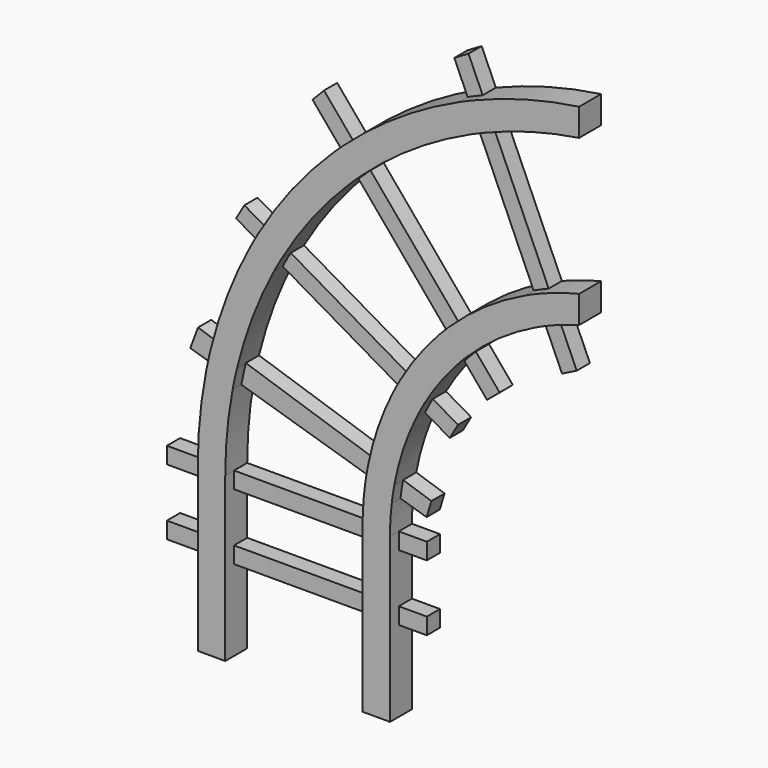
from build123d import *

# Parameters (mm, degrees)
F0_W     = 12.7
F0_H     = 7.62
F0_H_2   = 22.86
F0_H_3   = 37.4051523447
F1_DEPTH = 12.7
F2_DEPTH = 7.62
F0_W_2   = 63.5
F0_W_3   = 12.9496006727
F0_W_4   = 18.3387696743


with BuildPart() as f1:
    # F0 (on Front) → F1 (new body)
    with BuildSketch(Plane.XZ):
        with BuildLine():
            ThreePointArc((123.2638508081, 203.3807486296), (98.5284580668, 198.2719131295), (74.6068470106, 190.1665828637))
            Line((74.6068470106, 190.1665828637), (79.7206934395, 178.6448245315))
            ThreePointArc((79.7206934395, 178.6448245315), (101.1387402322, 185.9417822494), (123.2638508081, 190.6807486296))
            Line((123.2638508081, 190.6807486296), (123.2638508081, 203.3807486296))
        make_face()
        with BuildLine():
            ThreePointArc((74.6068470106, 190.1665828637), (71.1135233791, 188.7002628742), (67.647831647, 187.1697776163))
            Line((67.647831647, 187.1697776163), (72.758012158, 175.6460091987))
            ThreePointArc((72.758012158, 175.6460091987), (76.2246207074, 177.1796219912), (79.7206934395, 178.6448245315))
            Line((79.7206934395, 178.6448245315), (74.6068470106, 190.1665828637))
        make_face()
        with BuildLine():
            ThreePointArc((67.647831647, 187.1697776163), (39.7597301644, 171.840144172), (14.5735234294, 152.3876673079))
            Line((14.5735234294, 152.3876673079), (22.7188396142, 142.7010639584))
            ThreePointArc((22.7188396142, 142.7010639584), (46.4517177244, 161.1278822679), (72.758012158, 175.6460091987))
            Line((72.758012158, 175.6460091987), (67.647831647, 187.1697776163))
        make_face()
        with BuildLine():
            ThreePointArc((14.5735234294, 152.3876673079), (11.7794879403, 149.8137230966), (9.0335213742, 147.1885581998))
            Line((9.0335213742, 147.1885581998), (17.1964273399, 137.474700839))
            ThreePointArc((17.1964273399, 137.474700839), (19.9318823837, 140.1150921717), (22.7188396142, 142.7010639584))
            Line((22.7188396142, 142.7010639584), (14.5735234294, 152.3876673079))
        make_face()
        with BuildLine():
            ThreePointArc((9.0335213742, 147.1885581998), (-9.527713572, 126.4862552743), (-25.123677859, 103.4673350757))
            Line((-25.123677859, 103.4673350757), (-14.1553001974, 97.108853144))
            ThreePointArc((-14.1553001974, 97.108853144), (0.1778247939, 118.3346680171), (17.1964273399, 137.474700839))
            Line((17.1964273399, 137.474700839), (9.0335213742, 147.1885581998))
        make_face()
        with BuildLine():
            ThreePointArc((-28.8388715213, 96.8132475151), (-39.3919459782, 73.7340925126), (-47.0192412341, 49.5299783333))
            Line((-47.0192412341, 49.5299783333), (-34.9257600922, 45.5436537617))
            ThreePointArc((-34.9257600922, 45.5436537617), (-27.7965155034, 68.5296572353), (-17.8608100859, 90.4491517996))
            Line((-17.8608100859, 90.4491517995), (-28.8388715213, 96.8132475151))
        make_face()
        with BuildLine():
            ThreePointArc((-25.123677859, 103.4673350757), (-27.0121302745, 100.1575189724), (-28.8388715213, 96.8132475151))
            Line((-28.8388715213, 96.8132475151), (-17.8608100859, 90.4491517995))
            ThreePointArc((-17.8608100859, 90.4491517996), (-16.0409452089, 93.7973027623), (-14.1553001974, 97.108853144))
            Line((-14.1553001974, 97.108853144), (-25.123677859, 103.4673350757))
        make_face()
        with BuildLine():
            ThreePointArc((-47.0192412341, 49.5299783333), (-48.1642739682, 44.668584276), (-49.1908002716, 39.7807937841))
            Line((-49.1908002715, 39.7807937841), (-36.9786217253, 36.0603067767))
            ThreePointArc((-36.9786217253, 36.0603067767), (-36.0118231864, 40.8148888778), (-34.9257600922, 45.5436537617))
            Line((-34.9257600922, 45.5436537617), (-47.0192412341, 49.5299783333))
        make_face()
        with BuildLine():
            ThreePointArc((-49.1908002716, 39.7807937841), (-52.1045292445, 19.9851726597), (-53.0788525939, 0))
            Line((-53.0788525939, 0), (-40.3788525939, 0))
            ThreePointArc((-40.3788525939, 0), (-39.5269137324, 18.1101304164), (-36.9786217253, 36.0603067767))
            Line((-36.9786217253, 36.0603067767), (-49.1908002715, 39.7807937841))
        make_face()
        with Locations((-46.7288525939, -3.81)):
            Rectangle(F0_W, F0_H)
        with Locations((-46.7288525939, -19.05)):
            Rectangle(F0_W, F0_H_2)
        with Locations((-46.7288525939, -34.29)):
            Rectangle(F0_W, F0_H)
        with Locations((-46.7288525939, -56.8025761724)):
            Rectangle(F0_W, F0_H_3)
    extrude(amount=F1_DEPTH)


with BuildPart() as f1b:
    # F0 (on Front) → F1, piece 2 (new body)
    with BuildSketch(Plane.XZ):
        with Locations((29.4711474061, -56.8025761724)):
            Rectangle(F0_W, F0_H_3)
        with Locations((29.4711474061, -34.29)):
            Rectangle(F0_W, F0_H)
        with Locations((29.4711474061, -19.05)):
            Rectangle(F0_W, F0_H_2)
        with Locations((29.4711474061, -3.81)):
            Rectangle(F0_W, F0_H)
        with BuildLine():
            ThreePointArc((24.2829387851, 17.3967375314), (23.4119183695, 8.7177439161), (23.1211474061, 0))
            Line((23.1211474061, 0), (35.8211474061, 0))
            ThreePointArc((35.8211474061, 0), (36.0180055557, 6.8322760639), (36.6079268302, 13.6418826777))
            Line((36.6079268302, 13.6418826777), (24.2829387851, 17.3967375314))
        make_face()
        with BuildLine():
            ThreePointArc((25.6457554555, 25.5777136046), (24.8995041229, 21.4980273497), (24.2829387851, 17.3967375314))
            Line((24.2829387851, 17.3967375314), (36.6079268302, 13.6418826777))
            ThreePointArc((36.6079268302, 13.6418826777), (37.1361790002, 17.6169374031), (37.7984424579, 21.571873248))
            Line((37.7984424579, 21.571873248), (25.6457554555, 25.5777136046))
        make_face()
        with BuildLine():
            ThreePointArc((37.0012783394, 58.6450319239), (30.2139426889, 42.4924074522), (25.6457554555, 25.5777136046))
            Line((25.6457554555, 25.5777136046), (37.7984424579, 21.571873248))
            ThreePointArc((37.7984424579, 21.571873248), (41.8291201697, 37.2790524583), (47.9636720966, 52.2900189234))
            Line((47.9636720966, 52.2900189234), (37.0012783394, 58.6450319239))
        make_face()
        with BuildLine():
            ThreePointArc((40.6157458019, 65.3575115039), (38.759608058, 62.0276050473), (37.0012783394, 58.6450319239))
            Line((37.0012783394, 58.6450319239), (47.9636720966, 52.2900189234))
            ThreePointArc((47.9636720966, 52.2900189234), (49.6987542978, 55.6854739586), (51.5420371378, 59.0234274503))
            Line((51.5420371378, 59.0234274503), (40.6157458019, 65.3575115039))
        make_face()
        with BuildLine():
            ThreePointArc((57.9914953154, 88.9285736386), (48.6420664406, 77.6307167617), (40.6157458019, 65.3575115039))
            Line((40.6157458019, 65.3575115039), (51.5420371378, 59.0234274503))
            ThreePointArc((51.5420371378, 59.0234274503), (58.311198222, 69.5095613624), (66.1443584101, 79.2266672934))
            Line((66.1443584101, 79.2266672934), (57.9914953154, 88.9285736386))
        make_face()
        with BuildLine():
            ThreePointArc((63.3497167399, 94.3818604396), (60.6307642157, 91.6943643017), (57.9914953154, 88.9285736386))
            Line((57.9914953154, 88.9285736386), (66.1443584101, 79.2266672934))
            ThreePointArc((66.1443584101, 79.2266672934), (68.747439499, 82.0365123902), (71.4398528257, 84.7608785736))
            Line((71.4398528257, 84.7608785736), (63.3497167399, 94.3818604396))
        make_face()
        with BuildLine():
            ThreePointArc((98.1690415138, 118.3425896969), (79.7853703626, 107.7776380605), (63.3497167399, 94.3818604396))
            Line((63.3497167399, 94.3818604396), (71.4398528257, 84.7608785736))
            ThreePointArc((71.4398528257, 84.7608785736), (86.4034217717, 97.1890672316), (103.1963970014, 107.0055967536))
            Line((103.1963970014, 107.0055967536), (98.1690415138, 118.3425896969))
        make_face()
        with BuildLine():
            ThreePointArc((105.1361364963, 121.3825275736), (101.6305063529, 119.9131688586), (98.1690415138, 118.3425896969))
            Line((98.1690415138, 118.3425896969), (103.1963970014, 107.0055967536))
            ThreePointArc((103.1963970014, 107.0055967536), (106.6519233508, 108.5941768213), (110.1565837097, 110.0712024649))
            Line((110.1565837097, 110.0712024649), (105.1361364963, 121.3825275736))
        make_face()
        with BuildLine():
            ThreePointArc((123.2638508081, 127.1807486296), (114.094417816, 124.6117132366), (105.1361364963, 121.3825275736))
            Line((105.1361364963, 121.3825275736), (110.1565837097, 110.0712024649))
            ThreePointArc((110.1565837097, 110.0712024649), (116.6459248402, 112.4670831745), (123.2638508081, 114.4807486296))
            Line((123.2638508081, 114.4807486296), (123.2638508081, 127.1807486296))
        make_face()
    extrude(amount=F1_DEPTH)


with BuildPart() as f2:
    # F0 (on Front) → F2 (new body)
    with BuildSketch(Plane.XZ):
        with BuildLine():
            ThreePointArc((79.7206934395, 178.6448245315), (76.2246207074, 177.1796219912), (72.758012158, 175.6460091987))
            Line((72.758012158, 175.6460091987), (98.1690415138, 118.3425896969))
            ThreePointArc((98.1690415138, 118.3425896969), (101.6305063529, 119.9131688586), (105.1361364963, 121.3825275736))
            Line((105.1361364963, 121.3825275736), (79.7206934395, 178.6448245315))
        make_face()
    extrude(amount=F2_DEPTH)


with BuildPart() as f2b:
    # F0 (on Front) → F2, piece 2 (new body)
    with BuildSketch(Plane.XZ):
        with BuildLine():
            ThreePointArc((22.7188396142, 142.7010639584), (19.9318823837, 140.1150921717), (17.1964273399, 137.474700839))
            Line((17.1964273399, 137.474700839), (57.9914953154, 88.9285736386))
            ThreePointArc((57.9914953154, 88.9285736386), (60.6307642157, 91.6943643017), (63.3497167399, 94.3818604396))
            Line((63.3497167399, 94.3818604396), (22.7188396142, 142.7010639584))
        make_face()
    extrude(amount=F2_DEPTH)


with BuildPart() as f2c:
    # F0 (on Front) → F2, piece 3 (new body)
    with BuildSketch(Plane.XZ):
        with BuildLine():
            ThreePointArc((-14.1553001974, 97.108853144), (-16.0409452089, 93.7973027623), (-17.8608100859, 90.4491517996))
            Line((-17.8608100859, 90.4491517995), (37.0012783394, 58.6450319239))
            ThreePointArc((37.0012783394, 58.6450319239), (38.759608058, 62.0276050473), (40.6157458019, 65.3575115039))
            Line((40.6157458019, 65.3575115039), (-14.1553001974, 97.108853144))
        make_face()
    extrude(amount=F2_DEPTH)


with BuildPart() as f2d:
    # F0 (on Front) → F2, piece 4 (new body)
    with BuildSketch(Plane.XZ):
        with BuildLine():
            ThreePointArc((-34.9257600922, 45.5436537617), (-36.0118231864, 40.8148888778), (-36.9786217253, 36.0603067767))
            Line((-36.9786217253, 36.0603067767), (24.2829387851, 17.3967375314))
            ThreePointArc((24.2829387851, 17.3967375314), (24.8995041229, 21.4980273497), (25.6457554555, 25.5777136046))
            Line((25.6457554555, 25.5777136046), (-34.9257600922, 45.5436537617))
        make_face()
    extrude(amount=F2_DEPTH)


with BuildPart() as f2e:
    # F0 (on Front) → F2, piece 5 (new body)
    with BuildSketch(Plane.XZ):
        with Locations((-8.6288525939, -3.81)):
            Rectangle(F0_W_2, F0_H)
    extrude(amount=F2_DEPTH)


with BuildPart() as f2f:
    # F0 (on Front) → F2, piece 6 (new body)
    with BuildSketch(Plane.XZ):
        with Locations((-8.6288525939, -34.29)):
            Rectangle(F0_W_2, F0_H)
    extrude(amount=F2_DEPTH)


with BuildPart() as f2g:
    # F0 (on Front) → F2, piece 7 (new body)
    with BuildSketch(Plane.XZ):
        with Locations((42.2959477425, -34.29)):
            Rectangle(F0_W_3, F0_H)
    extrude(amount=F2_DEPTH)


with BuildPart() as f2h:
    # F0 (on Front) → F2, piece 8 (new body)
    with BuildSketch(Plane.XZ):
        with Locations((42.2959477425, -3.81)):
            Rectangle(F0_W_3, F0_H)
    extrude(amount=F2_DEPTH)


with BuildPart() as f2i:
    # F0 (on Front) → F2, piece 9 (new body)
    with BuildSketch(Plane.XZ):
        with BuildLine():
            ThreePointArc((37.7984424579, 21.571873248), (37.1361790002, 17.6169374031), (36.6079268302, 13.6418826777))
            Line((36.6079268302, 13.6418826777), (48.6687680951, 9.9675011532))
            Line((48.6687680951, 9.9675011532), (50.8894609828, 17.2567345215))
            Line((50.8894609828, 17.2567345215), (37.7984424579, 21.571873248))
        make_face()
    extrude(amount=F2_DEPTH)


with BuildPart() as f2j:
    # F0 (on Front) → F2, piece 10 (new body)
    with BuildSketch(Plane.XZ):
        with BuildLine():
            ThreePointArc((51.5420371378, 59.0234274503), (49.6987542978, 55.6854739586), (47.9636720966, 52.2900189234))
            Line((47.9636720966, 52.2900189234), (59.358157964, 45.6845176592))
            Line((59.358157964, 45.6845176592), (63.1798208408, 52.2768839154))
            Line((63.1798208408, 52.2768839154), (51.5420371378, 59.0234274503))
        make_face()
    extrude(amount=F2_DEPTH)


with BuildPart() as f2k:
    # F0 (on Front) → F2, piece 11 (new body)
    with BuildSketch(Plane.XZ):
        with BuildLine():
            ThreePointArc((71.4398528257, 84.7608785736), (68.747439499, 82.0365123902), (66.1443584101, 79.2266672934))
            Line((66.1443584101, 79.2266672934), (76.5995979309, 66.7849332094))
            Line((76.5995979309, 66.7849332094), (82.4333029651, 71.6872067201))
            Line((82.4333029651, 71.6872067201), (71.4398528257, 84.7608785736))
        make_face()
    extrude(amount=F2_DEPTH)


with BuildPart() as f2l:
    # F0 (on Front) → F2, piece 12 (new body)
    with BuildSketch(Plane.XZ):
        with BuildLine():
            ThreePointArc((110.1565837097, 110.0712024649), (106.6519233508, 108.5941768213), (103.1963970014, 107.0055967536))
            Line((103.1963970014, 107.0055967536), (111.2848296762, 88.7656882405))
            Line((111.2848296762, 88.7656882405), (118.1003655521, 92.1734544771))
            Line((118.1003655521, 92.1734544771), (110.1565837097, 110.0712024649))
        make_face()
    extrude(amount=F2_DEPTH)


with BuildPart() as f2m:
    # F0 (on Front) → F2, piece 13 (new body)
    with BuildSketch(Plane.XZ):
        with BuildLine():
            Line((61.475224793, 201.0893821716), (67.647831647, 187.1697776163))
            ThreePointArc((67.647831647, 187.1697776163), (71.1135233791, 188.7002628742), (74.6068470106, 190.1665828637))
            Line((74.6068470106, 190.1665828637), (68.0468335916, 204.9466296095))
            Line((68.0468335916, 204.9466296095), (61.475224793, 201.0893821716))
        make_face()
    extrude(amount=F2_DEPTH)


with BuildPart() as f2n:
    # F0 (on Front) → F2, piece 14 (new body)
    with BuildSketch(Plane.XZ):
        with BuildLine():
            Line((-4.063737113, 162.7742946148), (9.0335213742, 147.1885581998))
            ThreePointArc((9.0335213742, 147.1885581998), (11.7794879403, 149.8137230966), (14.5735234294, 152.3876673079))
            Line((14.5735234294, 152.3876673079), (1.2338773265, 168.251491092))
            Line((1.2338773265, 168.251491092), (-4.063737113, 162.7742946148))
        make_face()
    extrude(amount=F2_DEPTH)


with BuildPart() as f2o:
    # F0 (on Front) → F2, piece 15 (new body)
    with BuildSketch(Plane.XZ):
        with BuildLine():
            Line((-39.4252841529, 102.9503003699), (-28.8388715213, 96.8132475151))
            ThreePointArc((-28.8388715213, 96.8132475151), (-27.0121302745, 100.1575189724), (-25.123677859, 103.4673350757))
            Line((-25.123677859, 103.4673350757), (-35.6036212762, 109.5426666261))
            Line((-35.6036212762, 109.5426666261), (-39.4252841529, 102.9503003699))
        make_face()
    extrude(amount=F2_DEPTH)


with BuildPart() as f2p:
    # F0 (on Front) → F2, piece 16 (new body)
    with BuildSketch(Plane.XZ):
        with BuildLine():
            Line((-60.6135897692, 43.2607903919), (-49.1908002715, 39.7807937841))
            ThreePointArc((-49.1908002716, 39.7807937841), (-48.1642739682, 44.668584276), (-47.0192412341, 49.5299783333))
            Line((-47.0192412341, 49.5299783333), (-57.0226085548, 52.8273472615))
            Line((-57.0226085548, 52.8273472615), (-60.6135897692, 43.2607903919))
        make_face()
    extrude(amount=F2_DEPTH)


with BuildPart() as f2q:
    # F0 (on Front) → F2, piece 17 (new body)
    with BuildSketch(Plane.XZ):
        with Locations((-62.248237431, -3.81)):
            Rectangle(F0_W_4, F0_H)
    extrude(amount=F2_DEPTH)


with BuildPart() as f2r:
    # F0 (on Front) → F2, piece 18 (new body)
    with BuildSketch(Plane.XZ):
        with Locations((-62.248237431, -34.29)):
            Rectangle(F0_W_4, F0_H)
    extrude(amount=F2_DEPTH)


solid = Compound([f1.part, f1b.part, f2.part, f2b.part, f2c.part, f2d.part, f2e.part, f2f.part, f2g.part, f2h.part, f2i.part, f2j.part, f2k.part, f2l.part, f2m.part, f2n.part, f2o.part, f2p.part, f2q.part, f2r.part])
